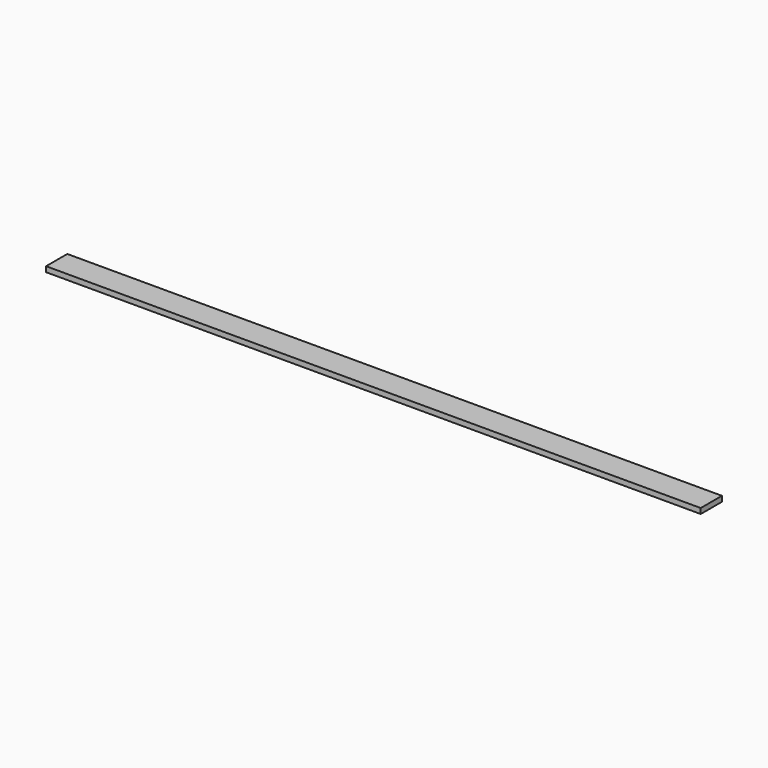
from build123d import *

# Parameters (mm, degrees)
BOX005_W     = 25
BOX005_H     = 10
BOX005_DEPTH = 10
BOX004_W     = 25
BOX004_H     = 10
BOX004_DEPTH = 10
BOX001_W     = 297
BOX001_H     = 10
BOX001_DEPTH = 2


with BuildPart() as cube005:
    # Box005 → Box005 (new body)
    with BuildSketch(Plane(origin=(272, 0, 0), x_dir=(1, 0, 0), z_dir=(0, 0, 1))):
        with Locations((12.5, 5)):
            Rectangle(BOX005_W, BOX005_H)
    extrude(amount=BOX005_DEPTH)


with BuildPart() as cube004:
    # Box004 → Box004 (new body)
    with BuildSketch(Plane.XY):
        with Locations((12.5, 5)):
            Rectangle(BOX004_W, BOX004_H)
    extrude(amount=BOX004_DEPTH)


with BuildPart() as cone004:
    # Cone004 → Cone004 (revolve)
    with BuildSketch(Plane(origin=(31.5, 5, 0), x_dir=(1, 0, 0), z_dir=(0, -1, 0))):
        Polygon((0, 0), (0.2, 0), (1.5, 2), (0, 2), align=None)
    revolve(axis=Axis((31.5, 5, 0), (0, 0, 1)))


with BuildPart() as cone005:
    # Cone005 → Cone005 (revolve)
    with BuildSketch(Plane(origin=(114.5, 5, 0), x_dir=(1, 0, 0), z_dir=(0, -1, 0))):
        Polygon((0, 0), (0.2, 0), (1.5, 2), (0, 2), align=None)
    revolve(axis=Axis((114.5, 5, 0), (0, 0, 1)))


with BuildPart() as cone006:
    # Cone006 → Cone006 (revolve)
    with BuildSketch(Plane(origin=(182.5, 5, 0), x_dir=(1, 0, 0), z_dir=(0, -1, 0))):
        Polygon((0, 0), (0.2, 0), (1.5, 2), (0, 2), align=None)
    revolve(axis=Axis((182.5, 5, 0), (0, 0, 1)))


with BuildPart() as cone007:
    # Cone007 → Cone007 (revolve)
    with BuildSketch(Plane(origin=(265.5, 5, 0), x_dir=(1, 0, 0), z_dir=(0, -1, 0))):
        Polygon((0, 0), (0.2, 0), (1.5, 2), (0, 2), align=None)
    revolve(axis=Axis((265.5, 5, 0), (0, 0, 1)))


with BuildPart() as obj1:
    # Box001 → Box001 (new body)
    with BuildSketch(Plane.XY.offset(2)):
        with Locations((148.5, 5)):
            Rectangle(BOX001_W, BOX001_H)
    extrude(amount=BOX001_DEPTH)

    # Fusion: union Cone007
    add(cone007.part)

    # Fusion001: union Cone006
    add(cone006.part)

    # Fusion002: union Cone005
    add(cone005.part)

    # Fusion003: union Cone004
    add(cone004.part)

    # Cut005: cut Cube004
    add(cube004.part, mode=Mode.SUBTRACT)

    # Cut006: cut Cube005
    add(cube005.part, mode=Mode.SUBTRACT)


solid = obj1.part
